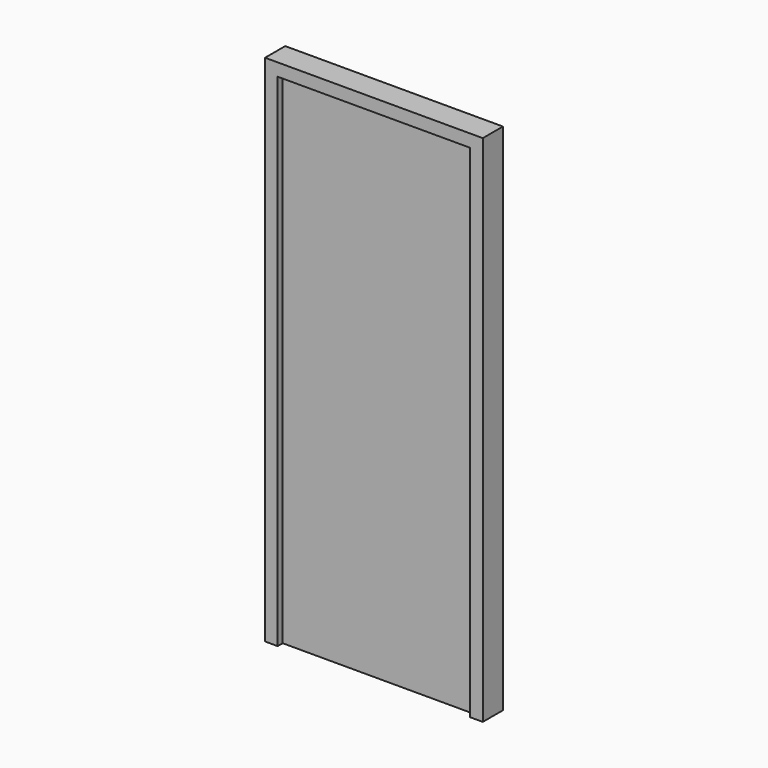
from build123d import *

# Parameters (mm, degrees)
F1_DEPTH      = 100
F3_W          = 764.166667
F3_H          = 1990
F4_DEPTH      = 25
F4_DEPTH_BACK = 25


with BuildPart() as f1:
    # F0 (on Front) → F1 (new body)
    with BuildSketch(Plane.XZ):
        Polygon((447.2323801669, 1034.0023847809), (-416.9342868331, 1034.0023847809), (-416.9342868331, -1005.9976152191), (-366.9342868331, -1005.9976152191), (-366.9342868331, 984.0023847809), (397.2323801669, 984.0023847809), (397.2323801669, -1005.9976152191), (447.2323801669, -1005.9976152191), align=None)
    extrude(amount=F1_DEPTH)


with BuildPart() as f4:
    # F3 (on mid) → F4 (new body, two sides)
    with BuildSketch(Plane.XZ.offset(50)) as f4_sk:
        with Locations((15.1490466669, -10.9976152191)):
            Rectangle(F3_W, F3_H)
    extrude(amount=F4_DEPTH)
    extrude(f4_sk.sketch, amount=-F4_DEPTH_BACK)


solid = Compound([f1.part, f4.part])
